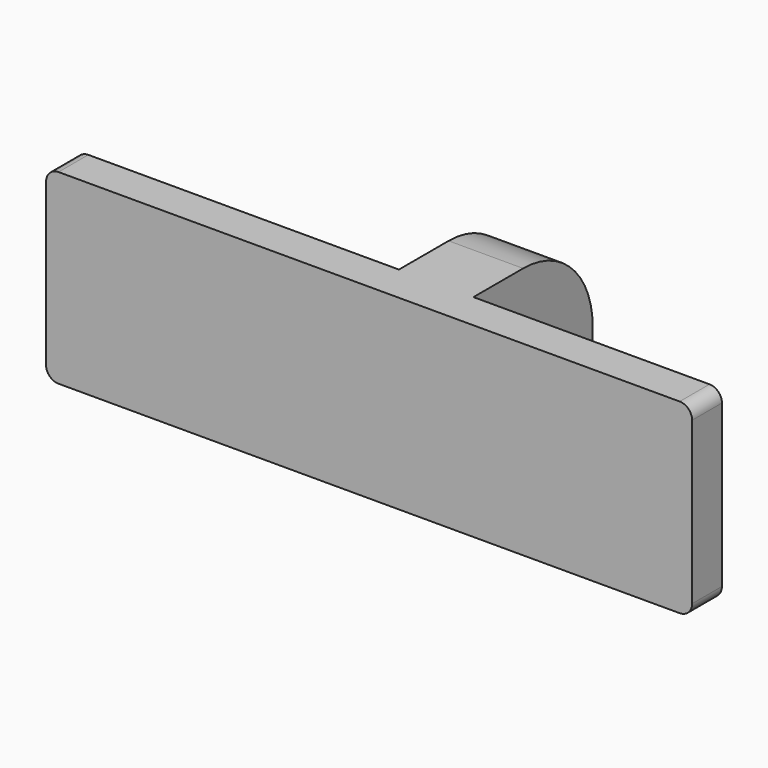
from build123d import *

# Parameters (mm, degrees)
PAD_DEPTH    = 15
FILLET_R     = 7
FILLET001_R  = 1
SKETCH001_R  = 1.5
POCKET_DEPTH = 32.001


with BuildPart() as part:
    # Sketch → Pad (new body)
    with BuildSketch(Plane.XY):
        Polygon((-26, 0), (0, 0), (0, 12), (6, 12), (6, 0), (26, 0), (26, -3), (-26, -3), align=None)
    extrude(amount=PAD_DEPTH)

    # Fillet
    fillet_edges = [part.edges().sort_by_distance(p)[0] for p in [
        (3, 12, 0),
        (3, 12, 15),
    ]]
    fillet(fillet_edges, radius=FILLET_R)

    # Fillet001
    fillet001_edges = [part.edges().sort_by_distance(p)[0] for p in [
        (26, -1.5, 0),
        (26, -1.5, 15),
        (-26, -1.5, 0),
        (-26, -1.5, 15),
    ]]
    fillet(fillet001_edges, radius=FILLET001_R)

    # Sketch001 (on Face8 of Fillet001) → Pocket (cut, through all)
    with BuildSketch(Plane.YZ.offset(6)):
        with Locations((8, 7.5)):
            Circle(SKETCH001_R)
    extrude(amount=-POCKET_DEPTH, mode=Mode.SUBTRACT)


solid = part.part
